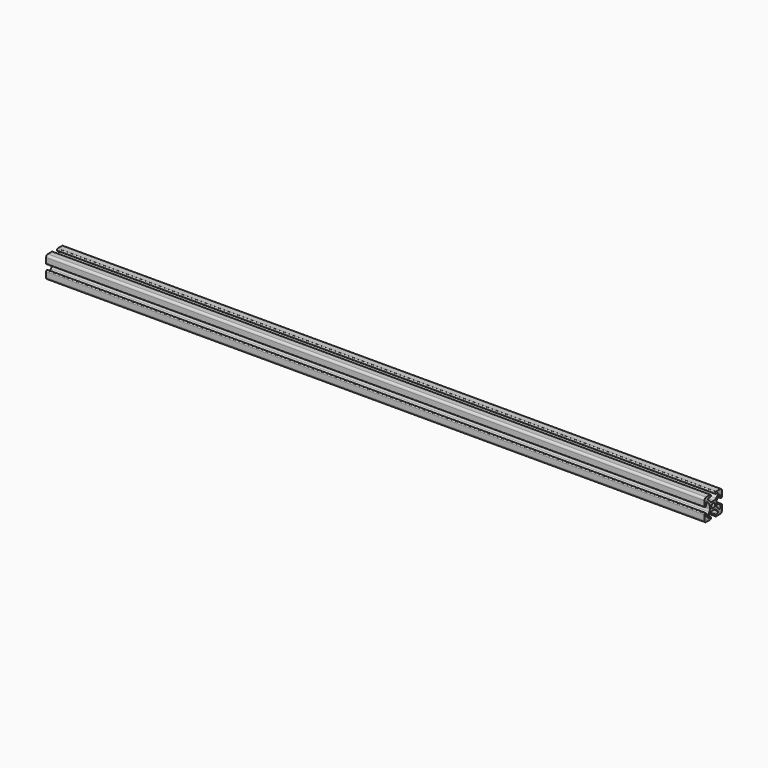
from build123d import *

# Parameters (mm, degrees)
F0_R     = 2
F1_DEPTH = 600


with BuildPart() as f1:
    # F0 (on Right) → F1 (new body)
    with BuildSketch(Plane.YZ):
        with BuildLine():
            Line((-3.3, 10), (-8, 10))
            ThreePointArc((-8, 10), (-9.414214, 9.414214), (-10, 8))
            Line((-10, 8), (-10, 3.3))
            ThreePointArc((-10, 3.3), (-9.765685, 2.734315), (-9.2, 2.5))
            Line((-9.2, 2.5), (-8.5, 2.5))
            ThreePointArc((-8.5, 2.5), (-8.287868, 2.587868), (-8.2, 2.8))
            Line((-8.2, 2.8), (-8.2, 4.92))
            ThreePointArc((-8.2, 4.92), (-7.687627, 5.68682), (-6.783101, 5.506899))
            Line((-6.783101, 5.506899), (-4.525962, 3.249759))
            ThreePointArc((-4.525962, 3.249759), (-3.877655, 2.279499), (-3.65, 1.135))
            Line((-3.65, 1.135), (-3.65, -1.135))
            ThreePointArc((-3.65, -1.135), (-3.877655, -2.279499), (-4.525962, -3.249759))
            Line((-4.525962, -3.249759), (-6.783101, -5.506899))
            ThreePointArc((-6.783101, -5.506899), (-7.687627, -5.68682), (-8.2, -4.92))
            Line((-8.2, -4.92), (-8.2, -2.8))
            ThreePointArc((-8.2, -2.8), (-8.287868, -2.587868), (-8.5, -2.5))
            Line((-8.5, -2.5), (-9.2, -2.5))
            ThreePointArc((-9.2, -2.5), (-9.765685, -2.734315), (-10, -3.3))
            Line((-10, -3.3), (-10, -8))
            ThreePointArc((-10, -8), (-9.414214, -9.414214), (-8, -10))
            Line((-8, -10), (-3.3, -10))
            ThreePointArc((-3.3, -10), (-2.734315, -9.765685), (-2.5, -9.2))
            Line((-2.5, -9.2), (-2.5, -8.5))
            ThreePointArc((-2.5, -8.5), (-2.587868, -8.287868), (-2.8, -8.2))
            Line((-2.8, -8.2), (-4.92, -8.2))
            ThreePointArc((-4.92, -8.2), (-5.68682, -7.687627), (-5.506899, -6.783101))
            Line((-5.506899, -6.783101), (-3.249759, -4.525962))
            ThreePointArc((-3.249759, -4.525962), (-2.279499, -3.877655), (-1.135, -3.65))
            Line((-1.135, -3.65), (1.135, -3.65))
            ThreePointArc((1.135, -3.65), (2.279499, -3.877655), (3.249759, -4.525962))
            Line((3.249759, -4.525962), (5.506899, -6.783101))
            ThreePointArc((5.506899, -6.783101), (5.68682, -7.687627), (4.92, -8.2))
            Line((4.92, -8.2), (2.8, -8.2))
            ThreePointArc((2.8, -8.2), (2.587868, -8.287868), (2.5, -8.5))
            Line((2.5, -8.5), (2.5, -9.2))
            ThreePointArc((2.5, -9.2), (2.734315, -9.765685), (3.3, -10))
            Line((3.3, -10), (8, -10))
            ThreePointArc((8, -10), (9.414214, -9.414214), (10, -8))
            Line((10, -8), (10, -3.3))
            ThreePointArc((10, -3.3), (9.765685, -2.734315), (9.2, -2.5))
            Line((9.2, -2.5), (8.5, -2.5))
            ThreePointArc((8.5, -2.5), (8.287868, -2.587868), (8.2, -2.8))
            Line((8.2, -2.8), (8.2, -4.92))
            ThreePointArc((8.2, -4.92), (7.687627, -5.68682), (6.783101, -5.506899))
            Line((6.783101, -5.506899), (4.525962, -3.249759))
            ThreePointArc((4.525962, -3.249759), (3.877655, -2.279499), (3.65, -1.135))
            Line((3.65, -1.135), (3.65, 1.135))
            ThreePointArc((3.65, 1.135), (3.877655, 2.279499), (4.525962, 3.249759))
            Line((4.525962, 3.249759), (6.783101, 5.506899))
            ThreePointArc((6.783101, 5.506899), (7.687627, 5.68682), (8.2, 4.92))
            Line((8.2, 4.92), (8.2, 2.8))
            ThreePointArc((8.2, 2.8), (8.287868, 2.587868), (8.5, 2.5))
            Line((8.5, 2.5), (9.2, 2.5))
            ThreePointArc((9.2, 2.5), (9.765685, 2.734315), (10, 3.3))
            Line((10, 3.3), (10, 8))
            ThreePointArc((10, 8), (9.414214, 9.414214), (8, 10))
            Line((8, 10), (3.3, 10))
            ThreePointArc((3.3, 10), (2.734315, 9.765685), (2.5, 9.2))
            Line((2.5, 9.2), (2.5, 8.5))
            ThreePointArc((2.5, 8.5), (2.587868, 8.287868), (2.8, 8.2))
            Line((2.8, 8.2), (4.92, 8.2))
            ThreePointArc((4.92, 8.2), (5.68682, 7.687627), (5.506899, 6.783101))
            Line((5.506899, 6.783101), (3.249759, 4.525962))
            ThreePointArc((3.249759, 4.525962), (2.279499, 3.877655), (1.135, 3.65))
            Line((1.135, 3.65), (-1.135, 3.65))
            ThreePointArc((-1.135, 3.65), (-2.279499, 3.877655), (-3.249759, 4.525962))
            Line((-3.249759, 4.525962), (-5.506899, 6.783101))
            ThreePointArc((-5.506899, 6.783101), (-5.68682, 7.687627), (-4.92, 8.2))
            Line((-4.92, 8.2), (-2.8, 8.2))
            ThreePointArc((-2.8, 8.2), (-2.587868, 8.287868), (-2.5, 8.5))
            Line((-2.5, 8.5), (-2.5, 9.2))
            ThreePointArc((-2.5, 9.2), (-2.734315, 9.765685), (-3.3, 10))
        make_face()
        Circle(F0_R, mode=Mode.SUBTRACT)
    extrude(amount=F1_DEPTH)


solid = f1.part
